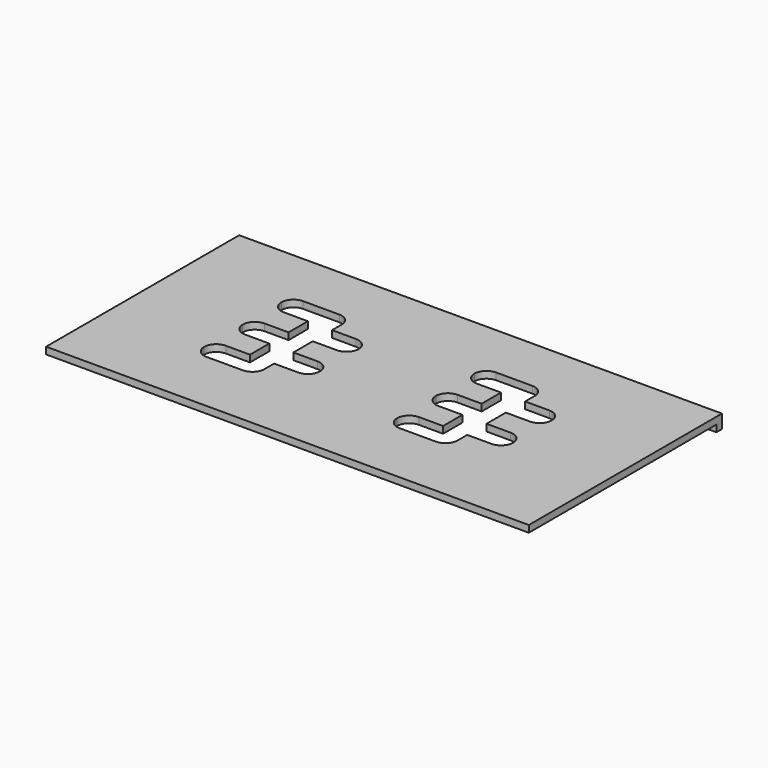
from build123d import *

# Parameters (mm, degrees)
F1_DEPTH      = 63.5
F1_DEPTH_BACK = 63.5
F3_DEPTH      = 3.6078
F5_DEPTH      = 3.6078


with BuildPart() as f1:
    # F0 (on Right) → F1 (new body, two sides)
    with BuildSketch(Plane.YZ) as f1_sk:
        Polygon((-31.75, -0.9017), (29.9466, -0.9017), (29.9466, -2.7051), (31.75, -2.7051), (31.75, -0.9017), (31.75, 0.9017), (-31.75, 0.9017), align=None)
    extrude(amount=F1_DEPTH)
    extrude(f1_sk.sketch, amount=-F1_DEPTH_BACK)

    # F2 (on face) → F3 (cut, through all)
    with BuildSketch(Plane.XY.offset(0.9017)):
        with BuildLine():
            Line((-25.4, 17.0434), (-34.925, 17.0434))
            ThreePointArc((-34.925, 17.0434), (-37.170064, 16.113464), (-38.1, 13.8684))
            ThreePointArc((-38.1, 13.8684), (-37.170064, 11.623336), (-34.925, 10.6934))
            Line((-34.925, 10.6934), (-28.575, 10.6934))
            Line((-28.575, 10.6934), (-28.575, 4.3434))
            Line((-28.575, 4.3434), (-34.925, 4.3434))
            ThreePointArc((-34.925, 4.3434), (-37.170064, 3.413464), (-38.1, 1.1684))
            ThreePointArc((-38.1, 1.1684), (-37.170064, -1.076664), (-34.925, -2.0066))
            Line((-34.925, -2.0066), (-28.575, -2.0066))
            Line((-28.575, -2.0066), (-28.575, -8.3566))
            Line((-28.575, -8.3566), (-34.925, -8.3566))
            ThreePointArc((-34.925, -8.3566), (-37.170064, -9.286536), (-38.1, -11.5316))
            ThreePointArc((-38.1, -11.5316), (-37.170064, -13.776664), (-34.925, -14.7066))
            Line((-34.925, -14.7066), (-25.4, -14.7066))
            ThreePointArc((-25.4, -14.7066), (-23.154936, -13.776664), (-22.225, -11.5316))
            Line((-22.225, -11.5316), (-22.225, -8.3566))
            Line((-22.225, -8.3566), (-15.875, -8.3566))
            ThreePointArc((-15.875, -8.3566), (-13.629936, -7.426664), (-12.7, -5.1816))
            ThreePointArc((-12.7, -5.1816), (-13.629936, -2.936536), (-15.875, -2.0066))
            Line((-15.875, -2.0066), (-22.225, -2.0066))
            Line((-22.225, -2.0066), (-22.225, 4.3434))
            Line((-22.225, 4.3434), (-15.875, 4.3434))
            ThreePointArc((-15.875, 4.3434), (-13.629936, 5.273336), (-12.7, 7.5184))
            ThreePointArc((-12.7, 7.5184), (-13.629936, 9.763464), (-15.875, 10.6934))
            Line((-15.875, 10.6934), (-22.225, 10.6934))
            Line((-22.225, 10.6934), (-22.225, 13.8684))
            ThreePointArc((-22.225, 13.8684), (-23.154936, 16.113464), (-25.4, 17.0434))
        make_face()
    extrude(amount=-F3_DEPTH, mode=Mode.SUBTRACT)

    # F4 (on face) → F5 (cut, through all)
    with BuildSketch(Plane.XY.offset(0.9017)):
        with BuildLine():
            Line((25.4, 17.0434), (15.875, 17.0434))
            ThreePointArc((15.875, 17.0434), (13.629936, 16.113464), (12.7, 13.8684))
            ThreePointArc((12.7, 13.8684), (13.629936, 11.623336), (15.875, 10.6934))
            Line((15.875, 10.6934), (22.225, 10.6934))
            Line((22.225, 10.6934), (22.225, 4.3434))
            Line((22.225, 4.3434), (15.875, 4.3434))
            ThreePointArc((15.875, 4.3434), (13.629936, 3.413464), (12.7, 1.1684))
            ThreePointArc((12.7, 1.1684), (13.629936, -1.076664), (15.875, -2.0066))
            Line((15.875, -2.0066), (22.225, -2.0066))
            Line((22.225, -2.0066), (22.225, -8.3566))
            Line((22.225, -8.3566), (15.875, -8.3566))
            ThreePointArc((15.875, -8.3566), (13.629936, -9.286536), (12.7, -11.5316))
            ThreePointArc((12.7, -11.5316), (13.629936, -13.776664), (15.875, -14.7066))
            Line((15.875, -14.7066), (25.4, -14.7066))
            ThreePointArc((25.4, -14.7066), (27.645064, -13.776664), (28.575, -11.5316))
            Line((28.575, -11.5316), (28.575, -8.3566))
            Line((28.575, -8.3566), (34.925, -8.3566))
            ThreePointArc((34.925, -8.3566), (37.170064, -7.426664), (38.1, -5.1816))
            ThreePointArc((38.1, -5.1816), (37.170064, -2.936536), (34.925, -2.0066))
            Line((34.925, -2.0066), (28.575, -2.0066))
            Line((28.575, -2.0066), (28.575, 4.3434))
            Line((28.575, 4.3434), (34.925, 4.3434))
            ThreePointArc((34.925, 4.3434), (37.170064, 5.273336), (38.1, 7.5184))
            ThreePointArc((38.1, 7.5184), (37.170064, 9.763464), (34.925, 10.6934))
            Line((34.925, 10.6934), (28.575, 10.6934))
            Line((28.575, 10.6934), (28.575, 13.8684))
            ThreePointArc((28.575, 13.8684), (27.645064, 16.113464), (25.4, 17.0434))
        make_face()
    extrude(amount=-F5_DEPTH, mode=Mode.SUBTRACT)


solid = f1.part
